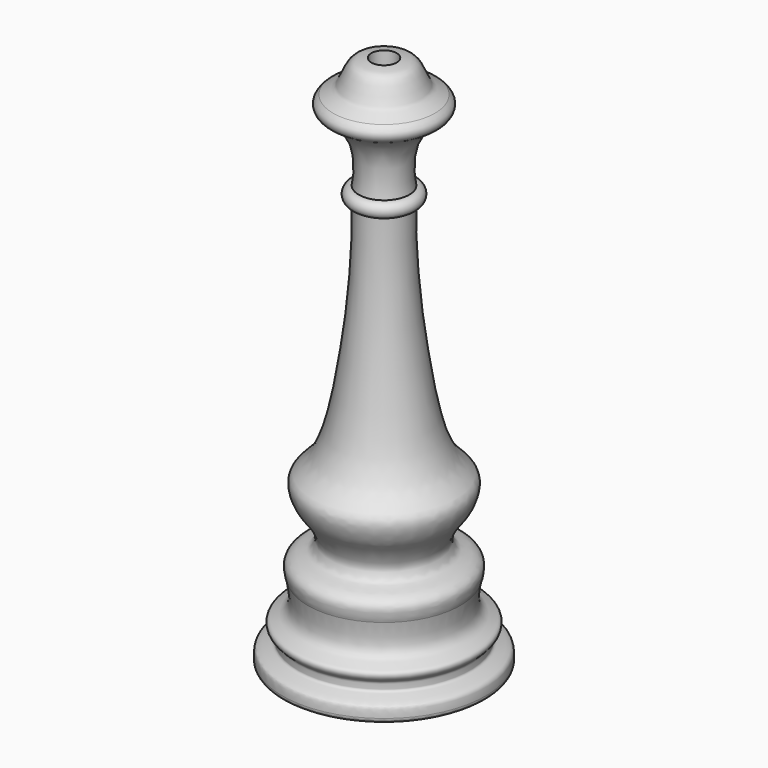
from build123d import *

# Parameters (mm, degrees)
F2_R     = 5.08
F3_R     = 76.2
F4_DEPTH = 12.7
F5_SCALE = 0.8


with BuildPart() as f1:
    # F0 (on Front) → F1 (revolve)
    with BuildSketch(Plane.XZ):
        with BuildLine():
            add(Edge.make_bspline(
                [(-25.287918246, 421.2053966172), (-23.5171722618, 428.6009676206), (-23.7095455194, 447.4874442337), (-27.1176163224, 462.9205865334), (-38.8135194397, 479.4304400065), (-50.8409221075, 484.6322419931), (-56.2408568492, 490.5802672491), (-55.8322939124, 496.8918693526), (-50.7680848241, 501.118183136)],
                knots=[0, 0, 0, 0, 0.2198810025, 0.3960828349, 0.5861239976, 0.7412716484, 0.8539017936, 1, 1, 1, 1], degree=3))
            ThreePointArc((-25.287918246, 421.2053966172), (-33.0744428221, 413.8612206295), (-25.4, 406.4))
            add(Edge.make_bspline(
                [(-25.4, 406.4), (-25.1329479672, 395.18386955), (-24.8929441295, 376.5215589788), (-28.4690727264, 319.5278536888), (-34.4504656161, 275.8896859655), (-40.8267538471, 232.9477557001), (-54.1512993287, 179.5437632636), (-79.683047959, 166.2458664688), (-69.8187791159, 140.1837288483), (-60.4751582944, 131.0092503774), (-51.0797109501, 112.9115040258), (-57.2426536505, 99.9429310363), (-69.0948161047, 98.598140686), (-79.1935364799, 91.7007547374), (-77.7764171638, 81.3864566504), (-76.8438620264, 77.7804417651), (-76.2, 76.2)],
                knots=[0, 0, 0, 0, 0.0826743444, 0.1940471964, 0.2943124796, 0.3944106834, 0.5033878602, 0.576179934, 0.6467254336, 0.7036608308, 0.7684763358, 0.8198476073, 0.8701947798, 0.9196349537, 0.9651653857, 1, 1, 1, 1], degree=3))
            add(Edge.make_bspline(
                [(-76.2, 76.2), (-74.9367097534, 71.6010030089), (-72.2096322693, 54.0294119215), (-80.1523720512, 43.4288014386), (-92.980206647, 40.8556123109), (-91.330186552, 32.8518207671), (-85.2211234968, 29.5795406053), (-85.963677659, 24.3934397611), (-85.1095624349, 19.467060179), (-102.5628269109, 16.9021320087), (-101.6285228935, 10.9285770566), (-101.6, 0)],
                knots=[0, 0, 0, 0, 0.1642994692, 0.29152519, 0.4087182523, 0.4940694901, 0.5836159452, 0.6601611983, 0.7286947583, 0.8553873841, 1, 1, 1, 1], degree=3))
            Line((-101.6, 0), (-57.15, 0))
            Line((-57.15, 0), (-57.15, 76.2))
            Line((-57.15, 76.2), (-38.1, 76.2))
            Line((-38.1, 76.2), (-38.1, 177.8))
            Line((-38.1, 177.8), (-12.7, 177.8))
            Line((-12.7, 177.8), (-12.7, 533.4))
            add(Edge.make_bspline(
                [(-12.7, 533.4), (-17.2200563256, 533.1312118374), (-26.7836801982, 532.5214759977), (-33.4188946389, 519.0497736249), (-37.9864249345, 506.6782241833), (-44.1604166529, 505.4300237121), (-50.7680848241, 501.118183136)],
                knots=[0, 0, 0, 0, 0.2484536144, 0.5061257046, 0.7389718632, 1, 1, 1, 1], degree=3))
        make_face()
    revolve(axis=Axis((0, 0, 330.2), (0, 0, 1)))

    # F2
    f2_edges = [f1.edges().sort_by_distance(p)[0] for p in [
        (101.6, 0, 0),
    ]]
    fillet(f2_edges, radius=F2_R)

    # F3 (on face) → F4 (cut)
    with BuildSketch(Plane(origin=(0, 0, 0), x_dir=(1, 0, 0), z_dir=(0, 0, -1))):
        Circle(F3_R)
    extrude(amount=-F4_DEPTH, mode=Mode.SUBTRACT)


with BuildPart() as f1_1:
    # F5: moved
    add(f1.part.scale(F5_SCALE))


solid = f1_1.part
